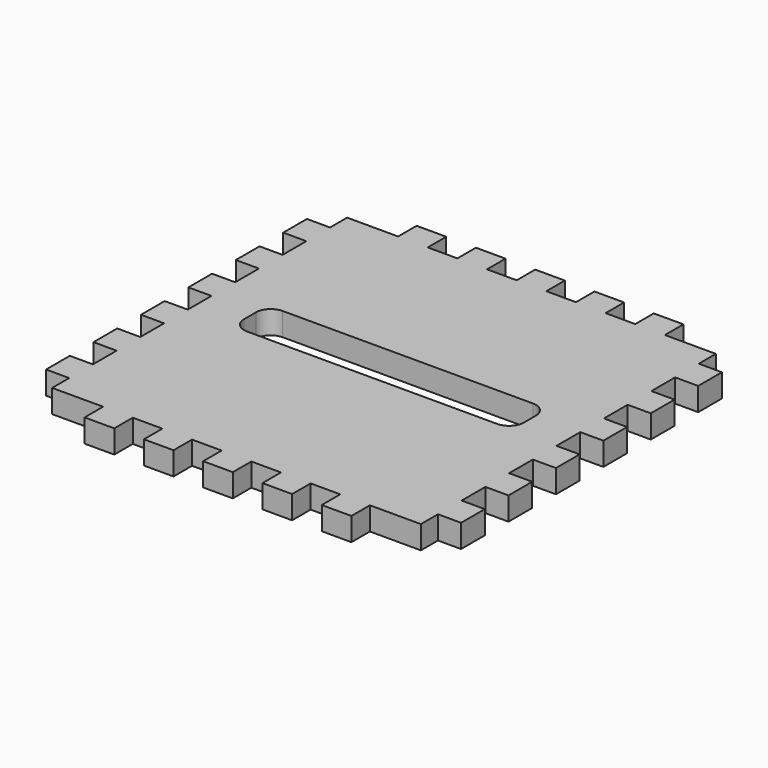
from build123d import *

# Parameters (mm, degrees)
F1_DEPTH = 9.906
F2_DEPTH = 9.906


with BuildPart() as f1:
    # F0 (on Top) → F1 (new body)
    with BuildSketch(Plane.XY):
        Polygon((44.45, 0), (31.75, 0), (31.75, -9.906), (9.906, -9.906), (9.906, -19.05), (0, -19.05), (0, -31.75), (9.906, -31.75), (9.906, -44.45), (0, -44.45), (0, -57.15), (9.906, -57.15), (9.906, -69.85), (0, -69.85), (0, -82.55), (9.906, -82.55), (9.906, -95.25), (0, -95.25), (0, -107.949999), (9.906, -107.949999), (9.906, -120.649999), (0, -120.649999), (0, -133.349999), (9.906, -133.349999), (9.906, -146.049999), (0, -146.049999), (0, -158.749999), (9.906, -158.749999), (9.906, -167.893999), (31.75, -167.893999), (31.75, -177.799999), (44.45, -177.799999), (44.45, -167.893999), (57.15, -167.893999), (57.15, -177.799999), (69.85, -177.799999), (69.85, -167.893999), (82.55, -167.893999), (82.55, -177.799999), (95.25, -177.799999), (95.25, -167.893999), (107.95, -167.893999), (107.95, -177.799999), (120.649999, -177.799999), (120.649999, -167.893999), (133.349999, -167.893999), (133.349999, -177.799999), (146.049999, -177.799999), (146.049999, -167.893999), (167.893999, -167.893999), (167.893999, -158.749999), (177.799999, -158.749999), (177.799999, -146.049999), (167.893999, -146.049999), (167.893999, -133.349999), (177.799999, -133.349999), (177.799999, -120.649999), (167.893999, -120.649999), (167.893999, -107.949999), (177.799999, -107.949999), (177.799999, -95.25), (167.893999, -95.25), (167.893999, -82.55), (177.799999, -82.55), (177.799999, -69.85), (167.893999, -69.85), (167.893999, -57.15), (177.799999, -57.15), (177.799999, -44.45), (167.893999, -44.45), (167.893999, -31.75), (177.799999, -31.75), (177.799999, -19.05), (167.893999, -19.05), (167.893999, -9.906), (146.049999, -9.906), (146.049999, 0), (133.349999, 0), (133.349999, -9.906), (120.649999, -9.906), (120.649999, 0), (107.95, 0), (107.95, -9.906), (95.25, -9.906), (95.25, 0), (82.55, 0), (82.55, -9.906), (69.85, -9.906), (69.85, 0), (57.15, 0), (57.15, -9.906), (44.45, -9.906), align=None)
        with BuildLine():
            ThreePointArc((28.956, -82.55), (30.815872, -78.059872), (35.306, -76.2))
            Line((35.306, -76.2), (142.493999, -76.2))
            ThreePointArc((142.493999, -76.2), (146.984127, -78.059872), (148.843999, -82.55))
            Line((148.843999, -82.55), (148.843999, -88.9))
            ThreePointArc((148.843999, -88.9), (146.984127, -93.390128), (142.493999, -95.25))
            Line((142.493999, -95.25), (35.306, -95.25))
            ThreePointArc((35.306, -95.25), (30.815872, -93.390128), (28.956, -88.9))
            Line((28.956, -88.9), (28.956, -82.55))
        make_face(mode=Mode.SUBTRACT)
    extrude(amount=F1_DEPTH)


with BuildPart() as f2:
    # F0 (on Top) → F2 (new body)
    with BuildSketch(Plane.XY):
        Polygon((44.45, 0), (31.75, 0), (31.75, -9.906), (9.906, -9.906), (9.906, -19.05), (0, -19.05), (0, -31.75), (9.906, -31.75), (9.906, -44.45), (0, -44.45), (0, -57.15), (9.906, -57.15), (9.906, -69.85), (0, -69.85), (0, -82.55), (9.906, -82.55), (9.906, -95.25), (0, -95.25), (0, -107.949999), (9.906, -107.949999), (9.906, -120.649999), (0, -120.649999), (0, -133.349999), (9.906, -133.349999), (9.906, -146.049999), (0, -146.049999), (0, -158.749999), (9.906, -158.749999), (9.906, -167.893999), (31.75, -167.893999), (31.75, -177.799999), (44.45, -177.799999), (44.45, -167.893999), (57.15, -167.893999), (57.15, -177.799999), (69.85, -177.799999), (69.85, -167.893999), (82.55, -167.893999), (82.55, -177.799999), (95.25, -177.799999), (95.25, -167.893999), (107.95, -167.893999), (107.95, -177.799999), (120.649999, -177.799999), (120.649999, -167.893999), (133.349999, -167.893999), (133.349999, -177.799999), (146.049999, -177.799999), (146.049999, -167.893999), (167.893999, -167.893999), (167.893999, -158.749999), (177.799999, -158.749999), (177.799999, -146.049999), (167.893999, -146.049999), (167.893999, -133.349999), (177.799999, -133.349999), (177.799999, -120.649999), (167.893999, -120.649999), (167.893999, -107.949999), (177.799999, -107.949999), (177.799999, -95.25), (167.893999, -95.25), (167.893999, -82.55), (177.799999, -82.55), (177.799999, -69.85), (167.893999, -69.85), (167.893999, -57.15), (177.799999, -57.15), (177.799999, -44.45), (167.893999, -44.45), (167.893999, -31.75), (177.799999, -31.75), (177.799999, -19.05), (167.893999, -19.05), (167.893999, -9.906), (146.049999, -9.906), (146.049999, 0), (133.349999, 0), (133.349999, -9.906), (120.649999, -9.906), (120.649999, 0), (107.95, 0), (107.95, -9.906), (95.25, -9.906), (95.25, 0), (82.55, 0), (82.55, -9.906), (69.85, -9.906), (69.85, 0), (57.15, 0), (57.15, -9.906), (44.45, -9.906), align=None)
        with BuildLine():
            ThreePointArc((28.956, -82.55), (30.815872, -78.059872), (35.306, -76.2))
            Line((35.306, -76.2), (142.493999, -76.2))
            ThreePointArc((142.493999, -76.2), (146.984127, -78.059872), (148.843999, -82.55))
            Line((148.843999, -82.55), (148.843999, -88.9))
            ThreePointArc((148.843999, -88.9), (146.984127, -93.390128), (142.493999, -95.25))
            Line((142.493999, -95.25), (35.306, -95.25))
            ThreePointArc((35.306, -95.25), (30.815872, -93.390128), (28.956, -88.9))
            Line((28.956, -88.9), (28.956, -82.55))
        make_face(mode=Mode.SUBTRACT)
    extrude(amount=F2_DEPTH)


solid = Compound([f1.part, f2.part])
